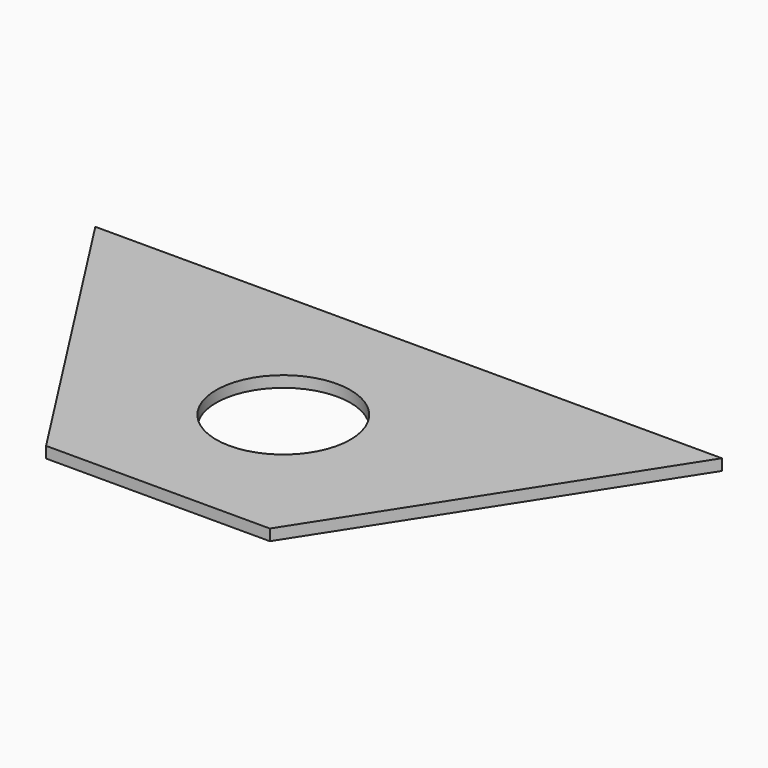
from build123d import *

# Parameters (mm, degrees)
F1_DEPTH = 6.35


with BuildPart() as f1:
    # F0 (on Top) → F1 (new body)
    with BuildSketch(Plane.XY):
        Polygon((-63.5, -88.9), (0, -88.9), (63.5, -88.9), (177.8, 88.9), (0, 88.9), (-177.8, 88.9), align=None)
        with BuildLine():
            ThreePointArc((0, -38.1), (-26.940768, 26.940768), (38.1, 0))
            ThreePointArc((38.1, 0), (26.940768, -26.940768), (0, -38.1))
        make_face(mode=Mode.SUBTRACT)
    extrude(amount=F1_DEPTH)


with BuildPart() as f2_1:
    # F2: copy of F1
    add(f1.part)


solid = f1.part
